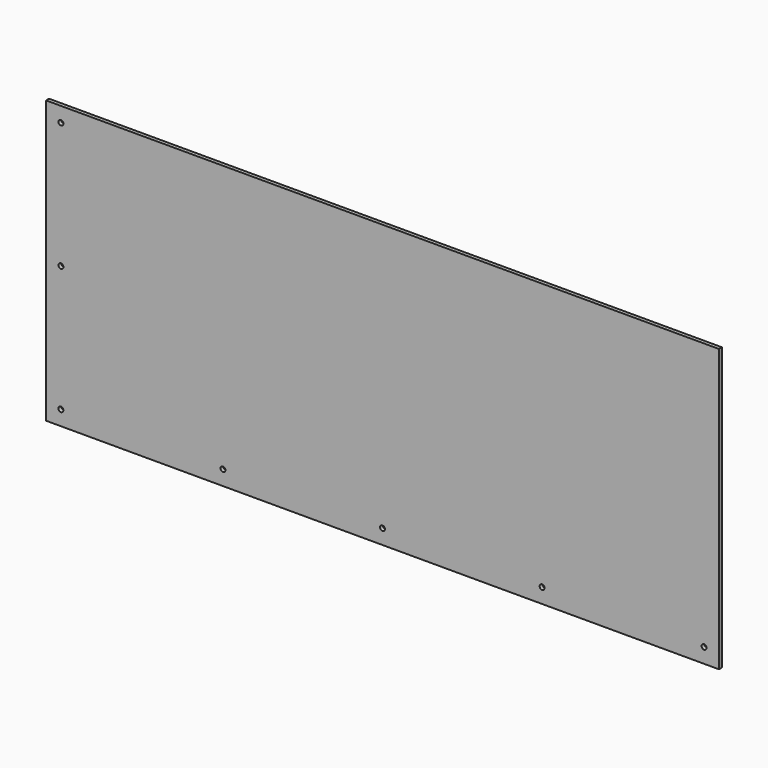
from build123d import *

# Parameters (mm, degrees)
F0_W     = 863.6
F0_H     = 361.95
F0_R     = 3.175
F1_DEPTH = 4.7752


with BuildPart() as f1:
    # F0 (on Front) → F1 (new body)
    with BuildSketch(Plane.XZ):
        Rectangle(F0_W, F0_H)
        with Locations((-412.75, -161.925)):
            Circle(F0_R, mode=Mode.SUBTRACT)
        with Locations((-204.7875, -161.925)):
            Circle(F0_R, mode=Mode.SUBTRACT)
        with Locations((0, -161.925)):
            Circle(F0_R, mode=Mode.SUBTRACT)
        with Locations((204.7875, -161.925)):
            Circle(F0_R, mode=Mode.SUBTRACT)
        with Locations((412.75, -161.925)):
            Circle(F0_R, mode=Mode.SUBTRACT)
        with Locations((-412.75, 0)):
            Circle(F0_R, mode=Mode.SUBTRACT)
        with Locations((-412.75, 161.925)):
            Circle(F0_R, mode=Mode.SUBTRACT)
    extrude(amount=F1_DEPTH)


solid = f1.part
